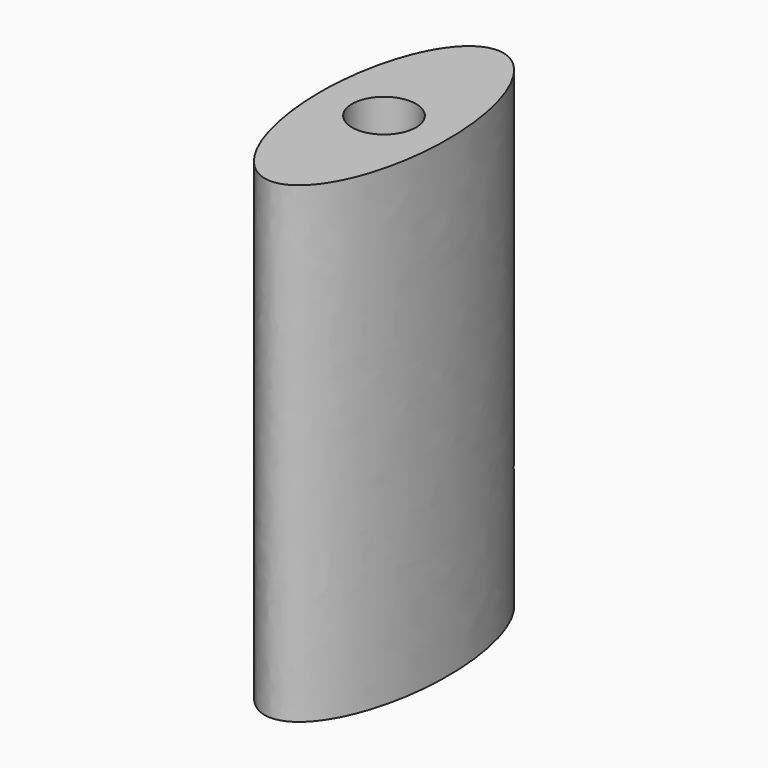
from build123d import *

# Parameters (mm, degrees)
F0_R     = 1.419903
F1_DEPTH = 21


with BuildPart() as f1:
    # F0 (on Top) → F1 (new body)
    with BuildSketch(Plane.XY):
        with BuildLine():
            add(Edge.make_bspline(
                [(11.325996, 0), (11.325996, -10.913196), (15.58571, -5.456598), (19.845424, 0), (15.58571, 5.456598), (11.325996, 10.913196), (11.325996, 0)],
                knots=[4.712389, 4.712389, 4.712389, 6.806784, 6.806784, 8.901179, 8.901179, 10.995574, 10.995574, 10.995574], degree=2, weights=[1, 0.5, 1, 0.5, 1, 0.5, 1]))
        make_face()
        with Locations((14.165805, 0)):
            Circle(F0_R, mode=Mode.SUBTRACT)
    extrude(amount=F1_DEPTH)


solid = f1.part
